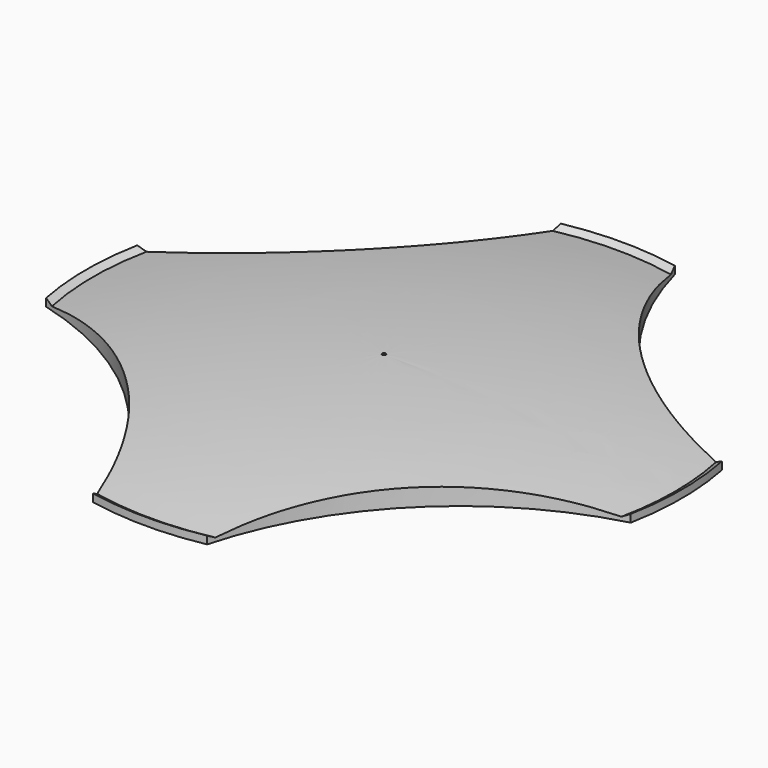
from build123d import *

# Parameters (mm, degrees)
F2_R     = 9.018737
F3_DEPTH = 0.821
F4_R     = 0.05
F5_DEPTH = 25


with BuildPart() as f1:
    # F0 (on Front) → F1 (revolve)
    with BuildSketch(Plane.XZ):
        with BuildLine():
            Line((8.1, 0.209697), (7.91, 0.1))
            ThreePointArc((7.91, 0.1), (3.971351, 0.639629), (0, 0.82))
            Line((0, 0.82), (0, 0))
            Line((0, 0), (8.1, 0))
            Line((8.1, 0), (8.1, 0.209697))
        make_face()
    revolve(axis=Axis((0, 0, 0.41), (0, 0, 1)))

    # F2 (on face) → F3 (cut, through all)
    with BuildSketch(Plane(origin=(0, 0, 0), x_dir=(1, 0, 0), z_dir=(0, 0, -1))):
        with Locations((-10.266297, 10.266297)):
            Circle(F2_R)
        with Locations((10.266297, 10.266297)):
            Circle(F2_R)
        with Locations((-10.266297, -10.266297)):
            Circle(F2_R)
        with Locations((10.266297, -10.266297)):
            Circle(F2_R)
    extrude(amount=-F3_DEPTH, mode=Mode.SUBTRACT)

    # F4 (on face) → F5 (cut)
    with BuildSketch(Plane(origin=(0, 0, 0), x_dir=(1, 0, 0), z_dir=(0, 0, -1))):
        Circle(F4_R)
    extrude(amount=-F5_DEPTH, mode=Mode.SUBTRACT)


solid = f1.part
